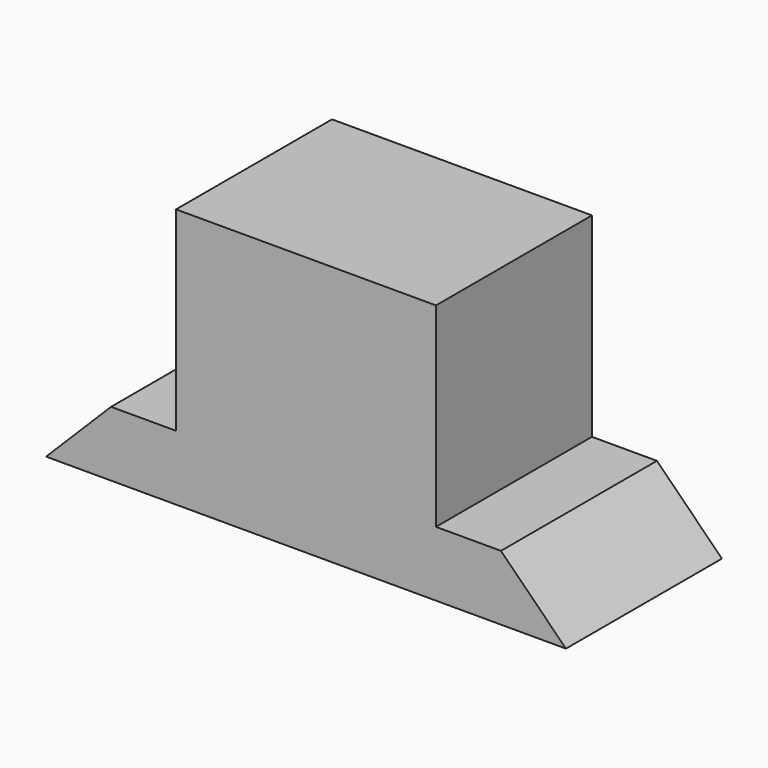
from build123d import *

# Parameters (mm, degrees)
PAD_DEPTH = 15


with BuildPart() as part:
    # Sketch → Pad (new body, symmetric)
    with BuildSketch(Plane.XZ):
        Polygon((0, 40), (-20, 40), (-20, 10), (-30, 10), (-40, 0), (0, 0), align=None)
    extrude(amount=PAD_DEPTH, both=True)

    # Mirrored: part across YZ


with BuildPart() as part_1:
    add(part.part)
    add(part.part.mirror(Plane.YZ))


solid = part_1.part
